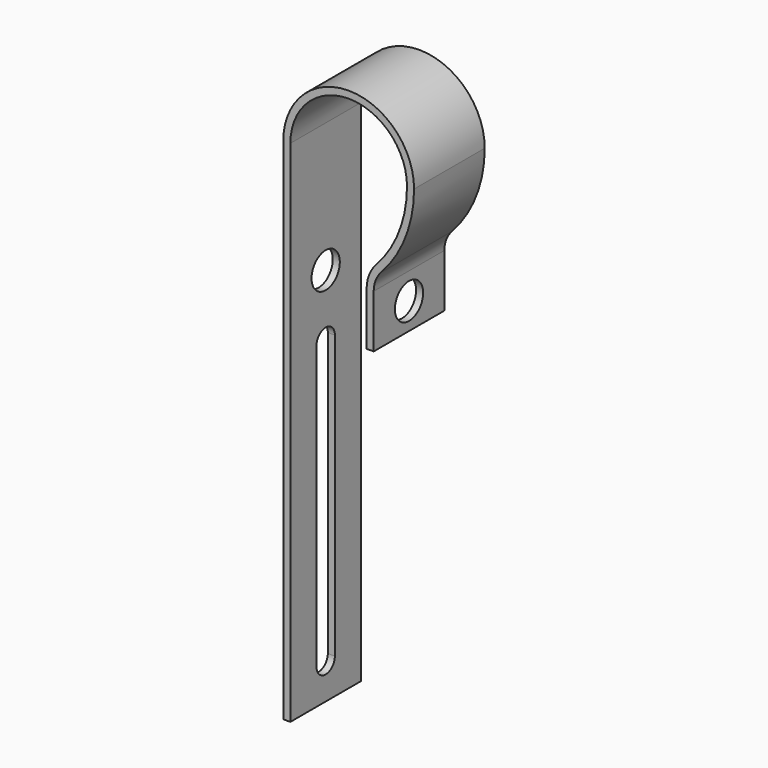
from build123d import *

# Parameters (mm, degrees)
F1_DEPTH = 25
F2_R     = 5
F3_DEPTH = 37.021


with BuildPart() as f1:
    # F0 (on Front) → F1 (new body)
    with BuildSketch(Plane.XZ):
        with BuildLine():
            Line((-2, 0), (0, 0))
            Line((0, 0), (0, 144.202608))
            ThreePointArc((0, 144.202608), (16.51, 160.712608), (33.02, 144.202608))
            ThreePointArc((33.02, 144.202608), (30.748603, 132.1675), (24.246904, 121.788147))
            ThreePointArc((24.246904, 121.788147), (22.277885, 118.644793), (21.59, 115))
            Line((21.59, 115), (21.59, 100))
            Line((21.59, 100), (23.59, 100))
            Line((23.59, 100), (23.59, 115))
            ThreePointArc((23.59, 115), (24.140308, 117.915835), (25.715523, 120.430517))
            ThreePointArc((25.715523, 120.430517), (32.611026, 131.438541), (35.02, 144.202608))
            ThreePointArc((35.02, 144.202608), (16.51, 162.712608), (-2, 144.202608))
            Line((-2, 144.202608), (-2, 0))
        make_face()
    extrude(amount=F1_DEPTH)

    # F2 (on face) → F3 (cut, through all)
    with BuildSketch(Plane(origin=(-2, 0, 0), x_dir=(0, -1, 0), z_dir=(-1, 0, 0))):
        with BuildLine():
            ThreePointArc((9.2488, 10), (12.5, 6.7488), (15.7512, 10))
            Line((15.7512, 10), (15.7512, 90))
            ThreePointArc((15.7512, 90), (12.5, 93.2512), (9.2488, 90))
            Line((9.2488, 90), (9.2488, 10))
        make_face()
        with Locations((12.5, 107.5)):
            Circle(F2_R)
    extrude(amount=-F3_DEPTH, mode=Mode.SUBTRACT)


solid = f1.part
